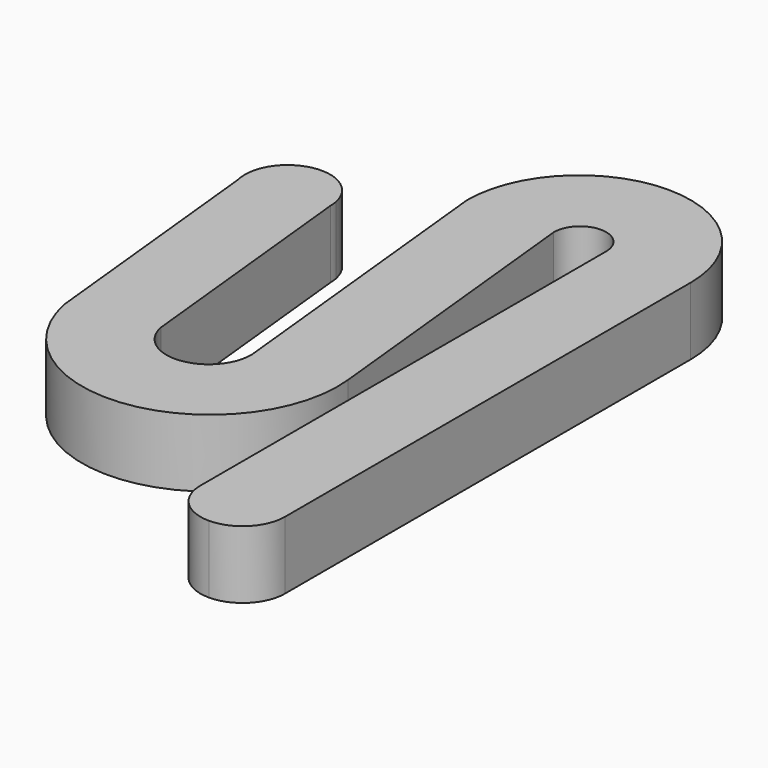
from build123d import *

# Parameters (mm, degrees)
F1_DEPTH = 5.08


with BuildPart() as f1:
    # F0 (on Top) → F1 (new body)
    with BuildSketch(Plane.XY):
        with BuildLine():
            Line((0.549417, 29.093022), (0.549417, -9.006978))
            ThreePointArc((0.549417, -9.006978), (1.479353, -11.252042), (3.724417, -12.181978))
            ThreePointArc((3.724417, -12.181978), (5.969481, -11.252042), (6.899417, -9.006978))
            Line((6.899417, -9.006978), (6.899417, 29.093022))
            ThreePointArc((6.899417, 29.093022), (-1.509537, 37.488393), (-9.891303, 29.065877))
            Line((-9.891303, 29.065877), (-7.490417, 5.875438))
            ThreePointArc((-7.490417, 5.875438), (-10.365969, 2.64314), (-13.81069, 5.260477))
            Line((-13.81069, 5.260477), (-15.701351, 23.522593))
            Line((-15.701351, 23.522593), (-15.762292, 24.111232))
            ThreePointArc((-15.762292, 24.111232), (-19.158057, 26.675151), (-22.092695, 23.594112))
            Line((-22.092695, 23.594112), (-22.003429, 22.731883))
            Line((-22.003429, 22.731883), (-20.061784, 3.977299))
            ThreePointArc((-20.061784, 3.977299), (-9.191107, -3.629406), (-1.073799, 6.865493))
            Line((-1.073799, 6.865493), (-3.372185, 29.065877))
            ThreePointArc((-3.372185, 29.065877), (-1.425051, 31.05387), (0.549417, 29.093022))
        make_face()
        with BuildLine():
            ThreePointArc((-22.092695, 23.594112), (-22.077424, 23.159958), (-22.003429, 22.731883))
            Line((-22.003429, 22.731883), (-22.092695, 23.594112))
        make_face()
        with BuildLine():
            ThreePointArc((-15.701351, 23.522593), (-15.718171, 23.818326), (-15.762292, 24.111232))
            Line((-15.762292, 24.111232), (-15.701351, 23.522593))
        make_face()
    extrude(amount=F1_DEPTH)


solid = f1.part
